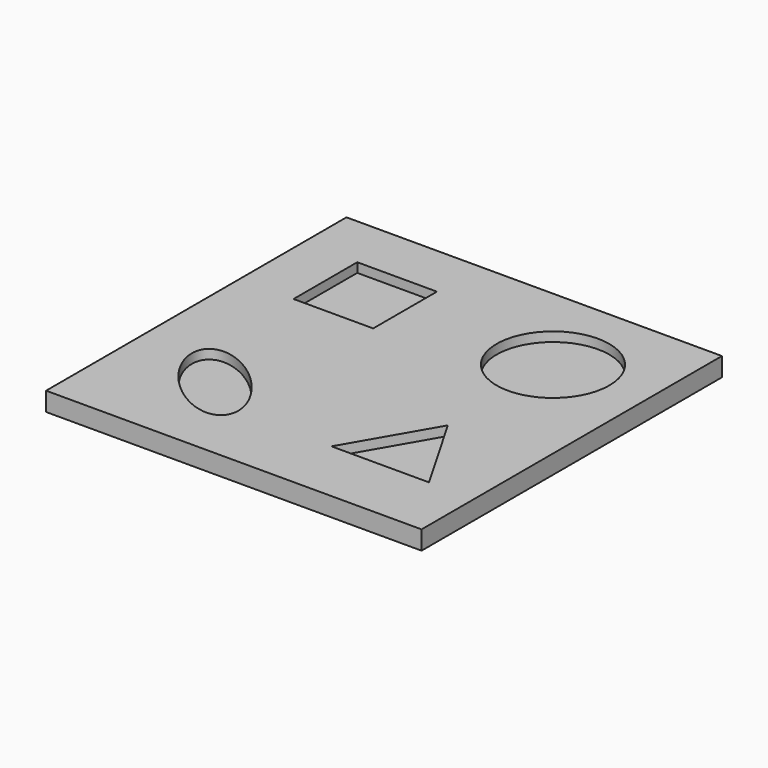
from build123d import *

# Parameters (mm, degrees)
SKETCH_W     = 200
SKETCH_H     = 200
PAD_DEPTH    = 10
SKETCH001_R  = 30
SKETCH001_W  = 42.426406
SKETCH001_H  = 42.426406
POCKET_DEPTH = 5


with BuildPart() as part:
    # Sketch → Pad (new body)
    with BuildSketch(Plane.XY):
        Rectangle(SKETCH_W, SKETCH_H)
    extrude(amount=PAD_DEPTH)

    # Sketch001 (on Face6 of Pad) → Pocket (cut)
    with BuildSketch(Plane.XY.offset(10)):
        with Locations((50, 50)):
            Circle(SKETCH001_R)
        with BuildLine():
            add(Edge.make_bspline(
                [(-28.786797, -71.213203), (-10.415623, -52.84203), (-51.421015, -30.207812), (-92.426407, -7.573593), (-69.792188, -48.578985), (-47.15797, -89.584377), (-28.786797, -71.213203)],
                knots=[0, 0, 0, 2.094395, 2.094395, 4.18879, 4.18879, 6.283185, 6.283185, 6.283185], degree=2, weights=[1, 0.5, 1, 0.5, 1, 0.5, 1]))
        make_face()
        Polygon((75.980762, -65), (50, -20), (24.019238, -65), align=None)
        with Locations((-50, 50)):
            Rectangle(SKETCH001_W, SKETCH001_H)
    extrude(amount=-POCKET_DEPTH, mode=Mode.SUBTRACT)


solid = part.part
